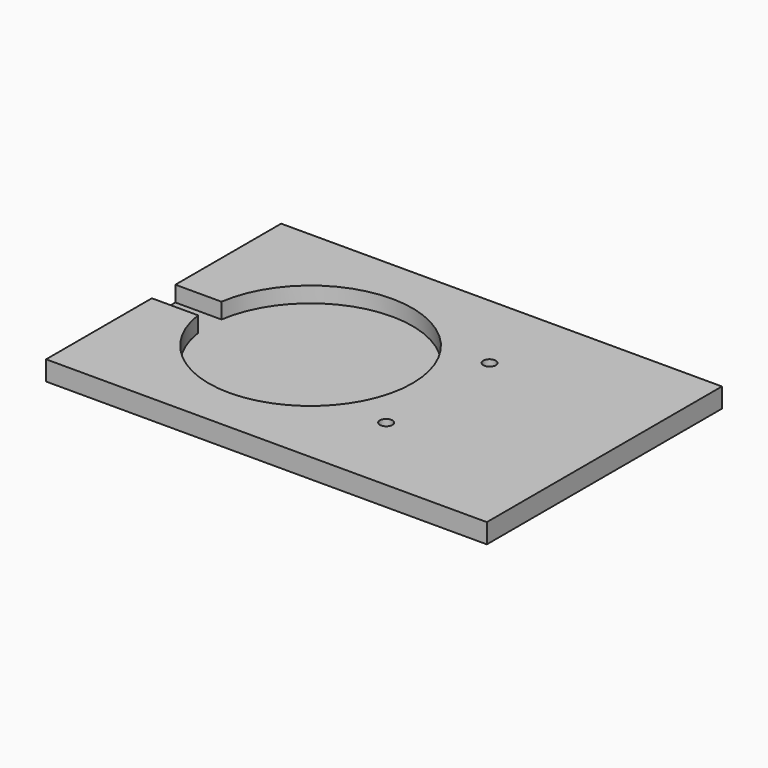
from build123d import *

# Parameters (mm, degrees)
SKETCH_W        = 225
SKETCH_H        = 150
PAD_DEPTH       = 10
SKETCH005_R     = 11.5
POCKET_DEPTH    = 6
COPYSKETCH006_R = 3.2
POCKET001_DEPTH = 10
SKETCH006_R     = 16.5
POCKET002_DEPTH = 1.8
SKETCH007_R     = 52
POCKET003_DEPTH = 8
SKETCH008_W     = 23.96291
SKETCH008_H     = 15
POCKET004_DEPTH = 8


with BuildPart() as part:
    # Sketch → Pad (new body)
    with BuildSketch(Plane.XY):
        with Locations((112.5, 75)):
            Rectangle(SKETCH_W, SKETCH_H)
    extrude(amount=PAD_DEPTH)

    # Sketch005 → Pocket (cut)
    with BuildSketch(Plane(origin=(0, 0, 0), x_dir=(1, 0, 0), z_dir=(0, 0, -1))):
        with Locations((140, -42)):
            Circle(SKETCH005_R)
        with Locations((140, -108)):
            Circle(SKETCH005_R)
    extrude(amount=-POCKET_DEPTH, mode=Mode.SUBTRACT)

    # CopySketch006 → Pocket001 (cut)
    with BuildSketch(Plane(origin=(0, 0, 0), x_dir=(1, 0, 0), z_dir=(0, 0, -1))):
        with Locations((140, -42)):
            Circle(COPYSKETCH006_R)
        with Locations((140, -108)):
            Circle(COPYSKETCH006_R)
    extrude(amount=-POCKET001_DEPTH, mode=Mode.SUBTRACT)

    # Sketch006 (on Face4 of Pocket001) → Pocket002 (cut)
    with BuildSketch(Plane(origin=(0, 0, 0), x_dir=(1, 0, 0), z_dir=(0, 0, -1))):
        with Locations((25, -25)):
            Circle(SKETCH006_R)
        with Locations((25, -125)):
            Circle(SKETCH006_R)
        with Locations((200, -25)):
            Circle(SKETCH006_R)
        with Locations((200, -125)):
            Circle(SKETCH006_R)
    extrude(amount=-POCKET002_DEPTH, mode=Mode.SUBTRACT)

    # Sketch007 (on Face5 of Pocket002) → Pocket003 (cut)
    with BuildSketch(Plane.XY.offset(10)):
        with Locations((75, 75)):
            Circle(SKETCH007_R)
    extrude(amount=-POCKET003_DEPTH, mode=Mode.SUBTRACT)

    # Sketch008 (on Face5 of Pocket003) → Pocket004 (cut)
    with BuildSketch(Plane.XY.offset(10)):
        with Locations((11.981453, 75)):
            Rectangle(SKETCH008_W, SKETCH008_H)
    extrude(amount=-POCKET004_DEPTH, mode=Mode.SUBTRACT)


solid = part.part
